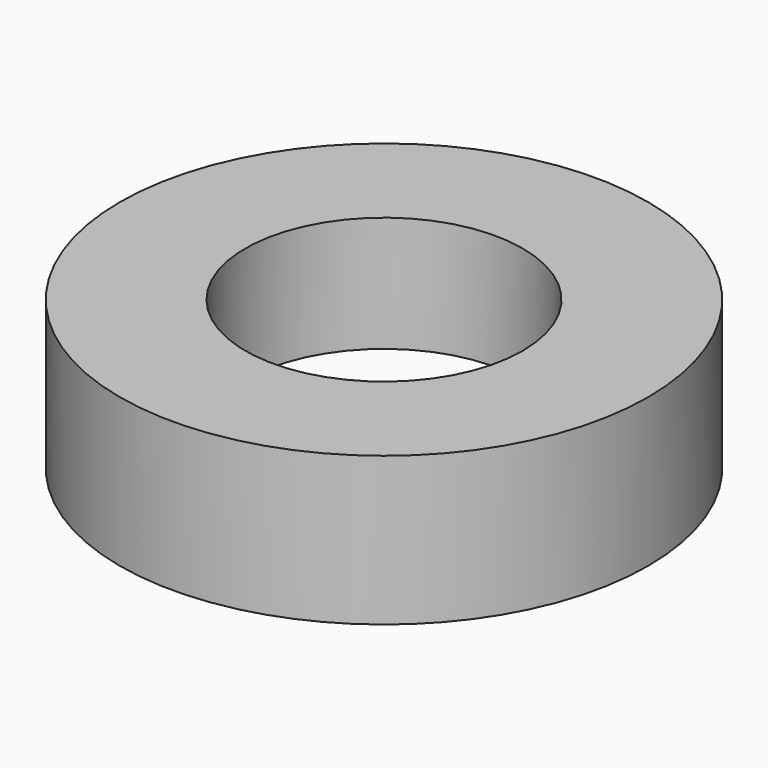
from build123d import *

# Parameters (mm, degrees)
CYLINDER014005899_R     = 7
CYLINDER014005899_DEPTH = 1
TUBE005_R               = 8
TUBE005_R_2             = 4.2
TUBE005_DEPTH           = 4.5


with BuildPart() as obj1:
    # Cylinder014005899 → Cylinder014005899 (new body)
    with BuildSketch(Plane.XY):
        Circle(CYLINDER014005899_R)
    extrude(amount=CYLINDER014005899_DEPTH)


with BuildPart() as ring001:
    # Tube005 → Tube005 (new body)
    with BuildSketch(Plane.XY):
        Circle(TUBE005_R)
        Circle(TUBE005_R_2, mode=Mode.SUBTRACT)
    extrude(amount=TUBE005_DEPTH)

    # Cut009003003009003003003003: cut obj1
    add(obj1.part, mode=Mode.SUBTRACT)


solid = ring001.part
